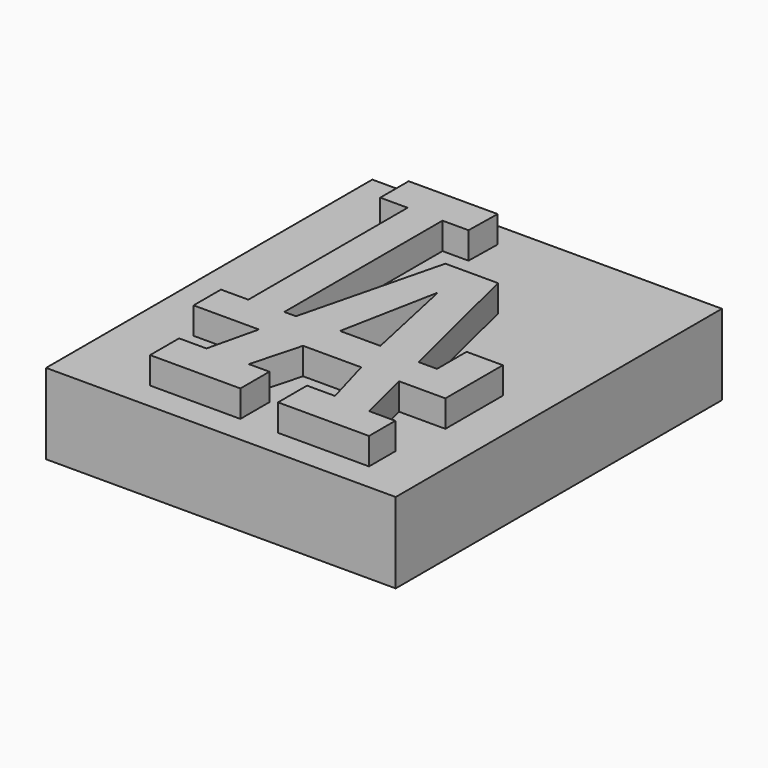
from build123d import *

# Parameters (mm, degrees)
F1_DEPTH = 25.4
F2_W     = 82.763381
F2_H     = 96.530288
F3_DEPTH = 19.05


with BuildPart() as f1:
    # F0 (on Top) → F1 (new body)
    with BuildSketch(Plane.XY):
        Polygon((-13.685921, 33.769403), (-13.523958, 42.191509), (-34.579221, 42.191509), (-34.579221, 33.769403), (-28.100679, 33.769403), (-28.100679, -13.361994), (-34.579221, -13.361994), (-34.579221, -21.460174), (-19.1162, -21.460174), (-21.946063, -33.445477), (-28.424606, -33.445477), (-28.424606, -42.029545), (-7.045416, -42.029545), (-7.045416, -33.445477), (-11.904322, -33.445477), (-8.665049, -21.460174), (5.101852, -21.460174), (8.477995, -33.445477), (1.86258, -33.445477), (1.86258, -42.029545), (23.403736, -42.029545), (23.403736, -34.255296), (17.249119, -34.255296), (14.009847, -21.460174), (25.023371, -21.460174), (25.023371, -4.453998), (16.439302, -4.453998), (16.439302, -13.200031), (12.066286, -13.200031), (3.79868, 20.650355), (-8.665049, 20.650355), (-17.087156, -13.038067), (-19.840537, -13.038067), (-19.840537, 33.769403), align=None)
        Polygon((-7.045416, -12.552176), (-2.510434, 10.770578), (2.510437, -12.552176), align=None, mode=Mode.SUBTRACT)
    extrude(amount=F1_DEPTH)

    # F2 (on Top) → F3 (join)
    with BuildSketch(Plane.XY):
        with Locations((-6.478544, -0.242945)):
            Rectangle(F2_W, F2_H)
    extrude(amount=F3_DEPTH)


solid = f1.part
